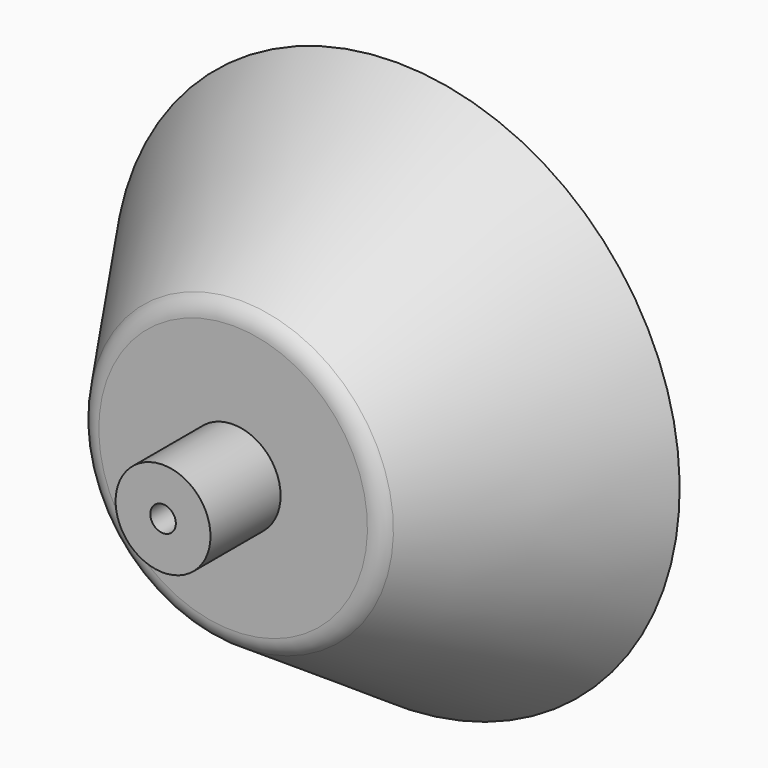
from build123d import *

# Parameters (mm, degrees)
F0_R     = 6.5
F0_R_2   = 1.75
F3_DEPTH = 20
F4_DEPTH = 30
F5_R     = 3


with BuildPart() as f2:
    # F1 (on Right) → F2 (revolve)
    with BuildSketch(Plane.YZ):
        Polygon((12, 20), (12, 0), (40, 0), (40, 38.768247), align=None)
    revolve(axis=Axis((0, 35.946441, 0), (0, 1, 0)))

    # F0 (on Front) → F3 (join)
    with BuildSketch(Plane.XZ):
        Circle(F0_R)
        Circle(F0_R_2, mode=Mode.SUBTRACT)
    extrude(amount=-F3_DEPTH)

    # F0 (on Front) → F4 (cut)
    with BuildSketch(Plane.XZ):
        Circle(F0_R_2)
    extrude(amount=-F4_DEPTH, mode=Mode.SUBTRACT)

    # F5
    f5_edges = [f2.edges().sort_by_distance(p)[0] for p in [
        (0, 12, -20),
    ]]
    fillet(f5_edges, radius=F5_R)


solid = f2.part
